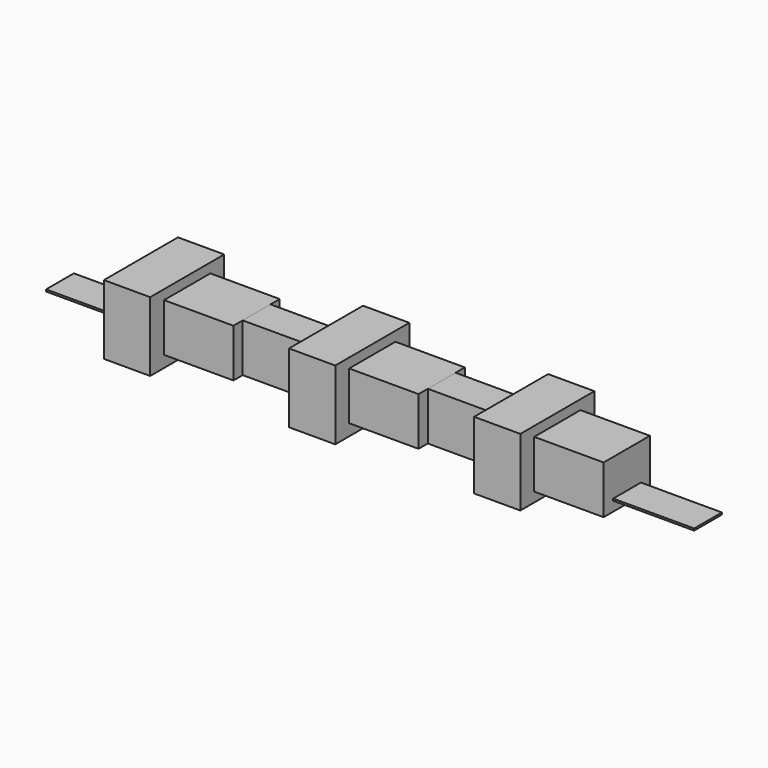
from build123d import *

# Parameters (mm, degrees)
F0_W           = 1066.8
F0_H           = 457.2
F1_DEPTH       = 25.4
F2_W           = 609.6
F2_H           = 1219.2
F3_DEPTH       = 609.6
F3_DEPTH_BACK  = 304.8
F5_START       = -127
F4_W           = 914.4
F4_H           = 457.2
F5_DEPTH       = 635
F7_START       = -127
F6_W           = 914.4
F6_H           = 762
F7_DEPTH       = 635
F8_W           = 609.6
F8_H           = 1219.2
F9_DEPTH       = 914.4
F11_START      = -127
F10_W          = 914.4
F10_H          = 762
F11_DEPTH      = 635
F12_W          = 914.4
F12_H          = 457.2
F13_DEPTH      = 635
F14_W          = 609.6
F14_H          = 1219.2
F15_DEPTH      = 127
F15_DEPTH_BACK = 762
F17_START      = -127
F16_W          = 914.4
F16_H          = 762
F17_DEPTH      = 635
F19_START      = -482.6
F18_W          = 1066.8
F18_H          = 457.2
F19_DEPTH      = 25.4


with BuildPart() as f1:
    # F0 (on Top) → F1 (new body)
    with BuildSketch(Plane.XY):
        with Locations((533.4, 228.6)):
            Rectangle(F0_W, F0_H)
    extrude(amount=F1_DEPTH)


with BuildPart() as f3:
    # F2 (on face) → F3 (new body, two sides)
    with BuildSketch(Plane.XY.offset(25.4)) as f3_sk:
        with Locations((1371.6, 228.6)):
            Rectangle(F2_W, F2_H)
    extrude(amount=F3_DEPTH)
    extrude(f3_sk.sketch, amount=-F3_DEPTH_BACK)


with BuildPart() as f5:
    # F4 (on face) → F5 (new body)
    with BuildSketch(Plane.XY.offset(635).offset(F5_START)):
        with Locations((3048, 228.6)):
            Rectangle(F4_W, F4_H)
    extrude(amount=-F5_DEPTH)


with BuildPart() as f7:
    # F6 (on face) → F7 (new body)
    with BuildSketch(Plane.XY.offset(635).offset(F7_START)):
        with Locations((2133.6, 228.6)):
            Rectangle(F6_W, F6_H)
    extrude(amount=-F7_DEPTH)


with BuildPart() as f9:
    # F8 (on face) → F9 (new body)
    with BuildSketch(Plane.XY.offset(635)):
        with Locations((3810, 228.6)):
            Rectangle(F8_W, F8_H)
    extrude(amount=-F9_DEPTH)


with BuildPart() as f11:
    # F10 (on face) → F11 (new body)
    with BuildSketch(Plane.XY.offset(635).offset(F11_START)):
        with Locations((4572, 228.6)):
            Rectangle(F10_W, F10_H)
    extrude(amount=-F11_DEPTH)


with BuildPart() as f13:
    # F12 (on face) → F13 (new body)
    with BuildSketch(Plane.XY.offset(508)):
        with Locations((5486.4, 228.6)):
            Rectangle(F12_W, F12_H)
    extrude(amount=-F13_DEPTH)


with BuildPart() as f15:
    # F14 (on face) → F15 (new body, two sides)
    with BuildSketch(Plane.XY.offset(508)) as f15_sk:
        with Locations((6248.4, 228.6)):
            Rectangle(F14_W, F14_H)
    extrude(amount=F15_DEPTH)
    extrude(f15_sk.sketch, amount=-F15_DEPTH_BACK)


with BuildPart() as f17:
    # F16 (on face) → F17 (new body)
    with BuildSketch(Plane.XY.offset(635).offset(F17_START)):
        with Locations((7010.4, 228.6)):
            Rectangle(F16_W, F16_H)
    extrude(amount=-F17_DEPTH)


with BuildPart() as f19:
    # F18 (on face) → F19 (new body)
    with BuildSketch(Plane.XY.offset(508).offset(F19_START)):
        with Locations((8001, 233.6800000317)):
            Rectangle(F18_W, F18_H)
    extrude(amount=-F19_DEPTH)


solid = Compound([f1.part, f3.part, f5.part, f7.part, f9.part, f11.part, f13.part, f15.part, f17.part, f19.part])
